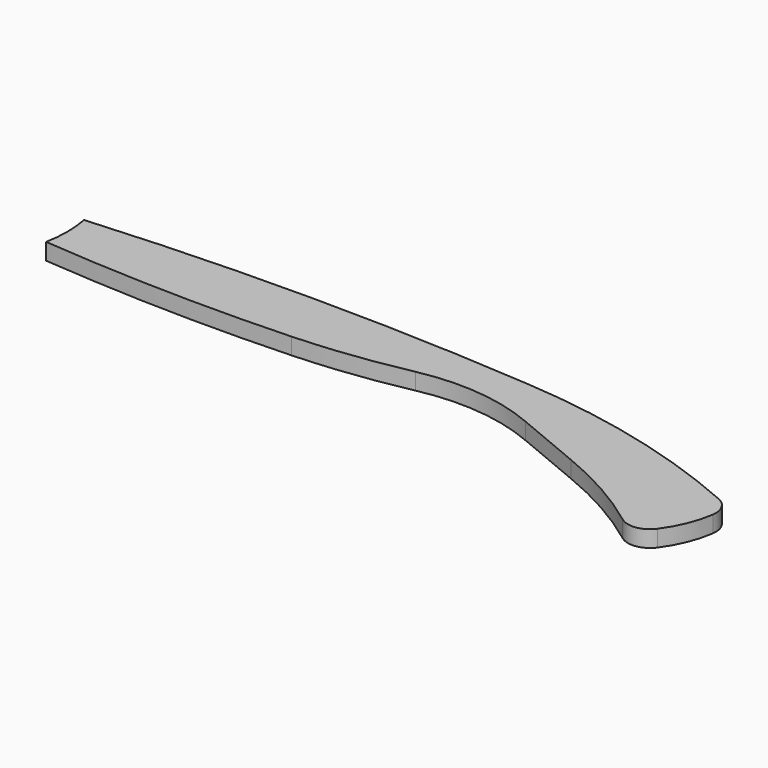
from build123d import *

# Parameters (mm, degrees)
F1_DEPTH = 3.81
F2_R     = 5.08
F3_R     = 865.118216
F4_R     = 162.209665


with BuildPart() as f1:
    # F0 (on Top) → F1 (new body)
    with BuildSketch(Plane.XY):
        with BuildLine():
            ThreePointArc((159.982175, -14.983156), (131.487989, -4.776084), (101.6, 0))
            ThreePointArc((101.6, 0), (50.8, 1.883753), (0, 0))
            ThreePointArc((0, 0), (0.527793, -5.453793), (0, -10.907586))
            ThreePointArc((0, -10.907586), (38.216498, -12.540312), (76.432995, -10.907586))
            ThreePointArc((76.432995, -10.907586), (97.285986, -8.193881), (117.188677, -14.983156))
            ThreePointArc((117.188677, -14.983156), (135.458144, -22.361969), (151.831031, -33.323213))
            ThreePointArc((151.831031, -33.323213), (157.950398, -25.061539), (159.982175, -14.983156))
        make_face()
    extrude(amount=F1_DEPTH)

    # F2
    f2_edges = [f1.edges().sort_by_distance(p)[0] for p in [
        (151.831031, -33.323213, 1.905),
        (159.982175, -14.983156, 1.905),
    ]]
    fillet(f2_edges, radius=F2_R)

    # F3
    f3_edges = [f1.edges().sort_by_distance(p)[0] for p in [
        (117.188677, -14.983156, 1.905),
    ]]
    fillet(f3_edges, radius=F3_R)

    # F4
    f4_edges = [f1.edges().sort_by_distance(p)[0] for p in [
        (76.432995, -10.907586, 1.905),
    ]]
    fillet(f4_edges, radius=F4_R)


solid = f1.part
